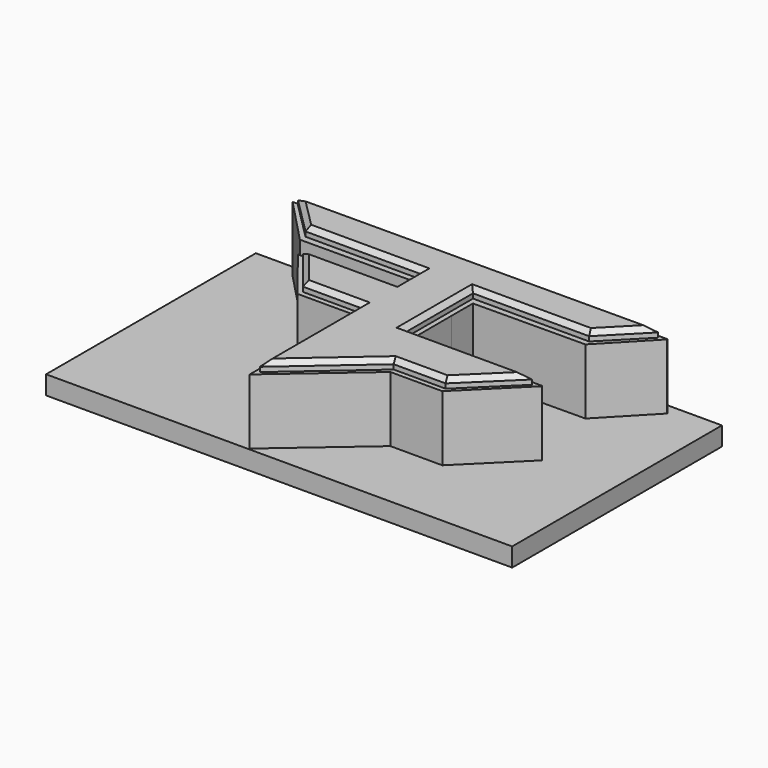
from build123d import *

# Parameters (mm, degrees)
F1_DEPTH = 9
F3_DEPTH = 10
F4_SIZE  = 0.5
F5_W     = 50
F5_H     = 28.125
F6_DEPTH = 2


with BuildPart() as f1:
    # F0 (on Top) → F1 (new body)
    with BuildSketch(Plane.XY):
        Polygon((45.063734, 26.990574), (5.092878, 26.825527), (5.026509, 26.825527), (5.026509, 26.775939), (9.752492, 21.845225), (21.620436, 21.900864), (21.620436, 19.744122), (13.590824, 19.655766), (11.297298, 19.655766), (15.708311, 14.049002), (21.73431, 14.049002), (21.73431, 13.644104), (21.73431, 0.123029), (30.663192, 7.83794), (36.236674, 7.83794), (42.195871, 13.755384), (42.170566, 13.813944), (28.305346, 13.917539), (28.29141, 18.968888), (28.29141, 21.87437), (40.296681, 21.950597), (45.063985, 26.929848), align=None)
    extrude(amount=F1_DEPTH)

    # F2 (on Top) → F3 (join)
    with BuildSketch(Plane.XY):
        Polygon((44.290613, 26.706943), (5.77521, 26.568018), (9.783478, 22.559412), (22.173569, 22.559412), (22.173569, 19.259503), (12.177236, 19.259503), (15.873199, 14.606038), (22.135269, 14.606038), (22.135269, 0.990343), (30.599596, 8.363117), (36.172263, 8.363117), (41.38108, 13.437884), (27.75046, 13.437884), (27.75046, 22.559412), (40.209763, 22.559412), align=None)
    extrude(amount=F3_DEPTH)

    # F4
    f4_edges = [f1.edges().sort_by_distance(p)[0] for p in [
        (22.135269, 7.798191, 10),
        (26.367432, 4.67673, 10),
        (33.38593, 8.363117, 10),
        (38.776672, 10.900501, 10),
        (34.56577, 13.437884, 10),
        (27.75046, 17.998648, 10),
        (33.980112, 22.559412, 10),
        (42.250188, 24.633178, 10),
        (25.032912, 26.637481, 10),
        (7.779344, 24.563715, 10),
        (15.978524, 22.559412, 10),
        (22.173569, 20.909457, 10),
        (17.175402, 19.259503, 10),
        (14.025218, 16.932771, 10),
        (19.004234, 14.606038, 10),
    ]]
    chamfer(f4_edges, length=F4_SIZE)

    # F5 (on Top) → F6 (join)
    with BuildSketch(Plane.XY):
        with Locations((25, 14.0625)):
            Rectangle(F5_W, F5_H)
    extrude(amount=F6_DEPTH)


solid = f1.part
